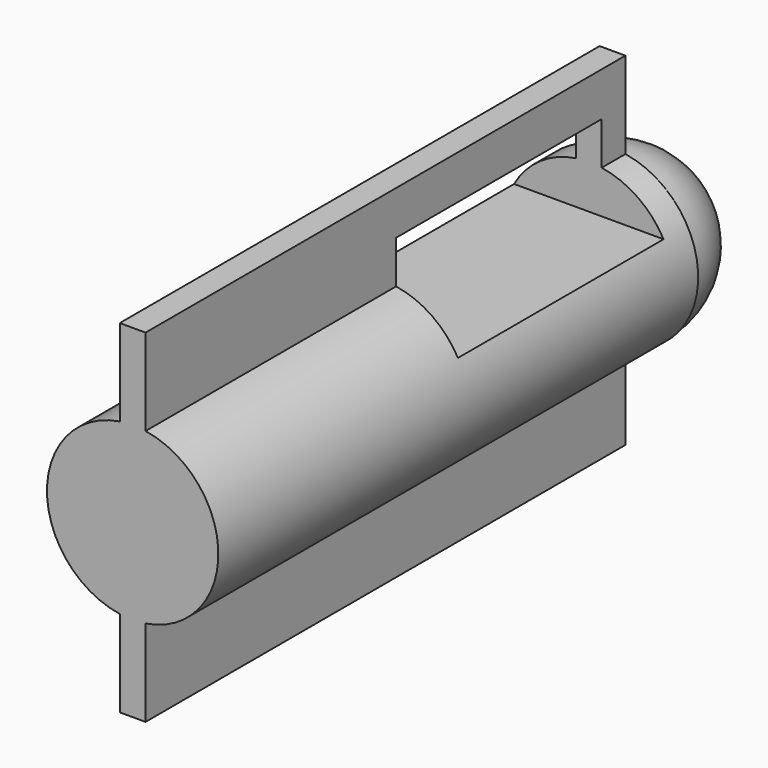
from build123d import *

# Parameters (mm, degrees)
F1_DEPTH = 8.89
F4_W     = 3.81
F4_H     = 1.27
F5_DEPTH = 12.7


with BuildPart() as f1:
    # F0 (on Front) → F1 (new body)
    with BuildSketch(Plane.XZ):
        with BuildLine():
            Line((0.1912181615, -2.54), (0.1912181615, -1.2555220487))
            ThreePointArc((0.1912181615, -1.2555220487), (1.27, 0), (0.1912181615, 1.2555220487))
            Line((0.1912181615, 1.2555220487), (0.1912181615, 2.54))
            Line((0.1912181615, 2.54), (-0.1912181615, 2.54))
            Line((-0.1912181615, 2.54), (-0.1912181615, 1.2555220487))
            ThreePointArc((-0.1912181615, 1.2555220487), (-1.27, 0), (-0.1912181615, -1.2555220487))
            Line((-0.1912181615, -1.2555220487), (-0.1912181615, -2.54))
            Line((-0.1912181615, -2.54), (0.1912181615, -2.54))
        make_face()
    extrude(amount=F1_DEPTH)

    # F2 (on Right) → F3 (revolve)
    with BuildSketch(Plane.YZ):
        with BuildLine():
            Line((0, 0), (0, -1.2554830802))
            ThreePointArc((0, -1.2554830802), (0.8877605997, -0.8877605997), (1.2554830802, 0))
            Line((1.2554830802, 0), (0, 0))
        make_face()
    revolve(axis=Axis((0, 0.6277415401, 0), (0, -1, 0)))

    # F4 (on face) → F5 (cut, symmetric)
    with BuildSketch(Plane.YZ.offset(0.1912181615)):
        with Locations((-2.3436378688, 1.2555220487)):
            Rectangle(F4_W, F4_H)
    extrude(amount=F5_DEPTH, both=True, mode=Mode.SUBTRACT)


solid = f1.part
